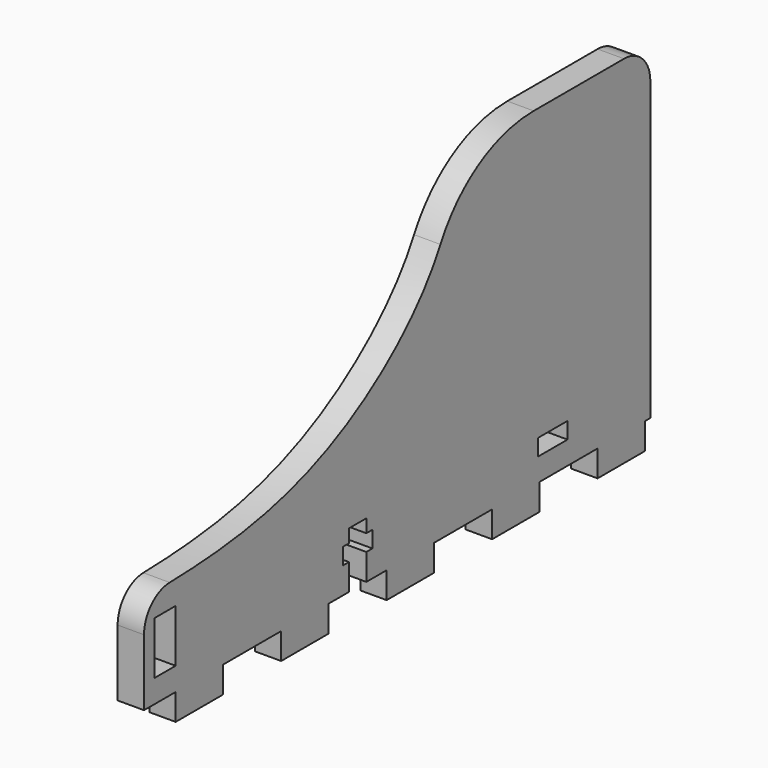
from build123d import *

# Parameters (mm, degrees)
F0_W     = 4
F0_H     = 8
F0_W_2   = 5.6
F0_H_2   = 2.5
F1_DEPTH = 4
F2_R     = 20
F3_R     = 5


with BuildPart() as f1:
    # F0 (on Right) → F1 (new body)
    with BuildSketch(Plane.YZ):
        with BuildLine():
            Line((49, -4), (49, 0))
            Line((49, 0), (50, 0))
            Line((50, 0), (50, 50))
            Line((50, 50), (49, 50))
            Line((49, 50), (13, 50))
            add(Edge.make_bspline(
                [(13, 50), (12.9998758082, 38.0063697851), (-8.6775983117, 16.9623554105), (-32.0279580626, 15.0926403149), (-46, 15)],
                knots=[0, 0, 0, 0, 0.4916803973, 1, 1, 1, 1], degree=3))
            Line((-46, 15), (-46, 0))
            Line((-46, 0), (-40, 0))
            Line((-40, 0), (-40, -4))
            Line((-40, -4), (-31, -4))
            Line((-31, -4), (-31, 0))
            Line((-31, 0), (-20, 0))
            Line((-20, 0), (-20, -4))
            Line((-20, -4), (-11, -4))
            Line((-11, -4), (-11, 0))
            Line((-11, 0), (-7.15, 0))
            Line((-7.15, 0), (-7.15, 4))
            Line((-7.15, 4), (-8.3, 4))
            Line((-8.3, 4), (-8.3, 6.5))
            Line((-8.3, 6.5), (-7.15, 6.5))
            Line((-7.15, 6.5), (-7.15, 8.5))
            Line((-7.15, 8.5), (-5.5, 8.5))
            Line((-5.5, 8.5), (-3.85, 8.5))
            Line((-3.85, 8.5), (-3.85, 6.5))
            Line((-3.85, 6.5), (-2.7, 6.5))
            Line((-2.7, 6.5), (-2.7, 4))
            Line((-2.7, 4), (-3.85, 4))
            Line((-3.85, 4), (-3.85, 0))
            Line((-3.85, 0), (0, 0))
            Line((0, 0), (0, -4))
            Line((0, -4), (9, -4))
            Line((9, -4), (9, 0))
            Line((9, 0), (20, 0))
            Line((20, 0), (20, -4))
            Line((20, -4), (29, -4))
            Line((29, -4), (29, 0))
            Line((29, 0), (40, 0))
            Line((40, 0), (40, -4))
            Line((40, -4), (49, -4))
        make_face()
        with Locations((-42, 7.5)):
            Rectangle(F0_W, F0_H, mode=Mode.SUBTRACT)
        with Locations((31.5, 4.75)):
            Rectangle(F0_W_2, F0_H_2, mode=Mode.SUBTRACT)
    extrude(amount=F1_DEPTH)

    # F2
    f2_edges = [f1.edges().sort_by_distance(p)[0] for p in [
        (2, 13, 50),
    ]]
    fillet(f2_edges, radius=F2_R)

    # F3
    f3_edges = [f1.edges().sort_by_distance(p)[0] for p in [
        (2, 50, 50),
        (2, -46, 15),
    ]]
    fillet(f3_edges, radius=F3_R)


solid = f1.part
